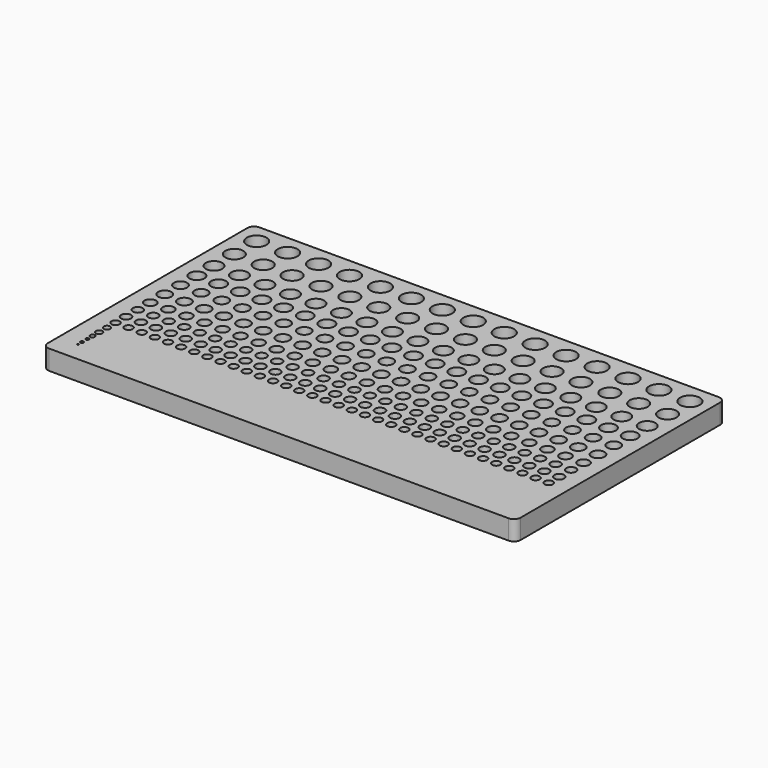
from build123d import *

# Parameters (mm, degrees)
F0_R     = 0.79375
F0_R_2   = 1.5875
F0_R_3   = 2.38125
F0_R_4   = 3.175
F0_R_5   = 3.96875
F0_R_6   = 4.7625
F0_R_7   = 5.55625
F0_R_8   = 6.35
F0_R_9   = 7.14375
F0_R_10  = 7.9375
F0_R_11  = 8.73125
F0_R_12  = 9.525
F1_DEPTH = 19.05


with BuildPart() as f1:
    # F0 (on Top) → F1 (new body)
    with BuildSketch(Plane.XY):
        with BuildLine():
            ThreePointArc((0, 6.35), (1.859872, 1.859872), (6.35, 0))
            Line((6.35, 0), (450.85, 0))
            ThreePointArc((450.85, 0), (455.340128, 1.859872), (457.2, 6.35))
            Line((457.2, 6.35), (457.2, 247.65))
            ThreePointArc((457.2, 247.65), (455.340128, 252.140128), (450.85, 254))
            Line((450.85, 254), (6.35, 254))
            ThreePointArc((6.35, 254), (1.859872, 252.140128), (0, 247.65))
            Line((0, 247.65), (0, 6.35))
        make_face()
        with Locations((19.05, 19.05)):
            Circle(F0_R, mode=Mode.SUBTRACT)
        with Locations((19.05, 23.8125)):
            Circle(F0_R_2, mode=Mode.SUBTRACT)
        with Locations((19.05, 30.1625)):
            Circle(F0_R_2, mode=Mode.SUBTRACT)
        with Locations((19.05, 36.5125)):
            Circle(F0_R_3, mode=Mode.SUBTRACT)
        with Locations((19.05, 44.45)):
            Circle(F0_R_4, mode=Mode.SUBTRACT)
        with Locations((19.05, 53.975)):
            Circle(F0_R_4, mode=Mode.SUBTRACT)
        with Locations((19.05, 64.29375)):
            Circle(F0_R_5, mode=Mode.SUBTRACT)
        with Locations((19.05, 76.99375)):
            Circle(F0_R_6, mode=Mode.SUBTRACT)
        with Locations((31.75, 64.29375)):
            Circle(F0_R_5, mode=Mode.SUBTRACT)
        with Locations((44.45, 64.29375)):
            Circle(F0_R_5, mode=Mode.SUBTRACT)
        with Locations((33.501724, 76.99375)):
            Circle(F0_R_6, mode=Mode.SUBTRACT)
        with Locations((47.953448, 76.99375)):
            Circle(F0_R_6, mode=Mode.SUBTRACT)
        with Locations((19.05, 91.28125)):
            Circle(F0_R_6, mode=Mode.SUBTRACT)
        with Locations((34.017857, 91.28125)):
            Circle(F0_R_6, mode=Mode.SUBTRACT)
        with Locations((48.985714, 91.28125)):
            Circle(F0_R_6, mode=Mode.SUBTRACT)
        with Locations((57.15, 64.29375)):
            Circle(F0_R_5, mode=Mode.SUBTRACT)
        with Locations((69.85, 64.29375)):
            Circle(F0_R_5, mode=Mode.SUBTRACT)
        with Locations((82.55, 64.29375)):
            Circle(F0_R_5, mode=Mode.SUBTRACT)
        with Locations((62.405172, 76.99375)):
            Circle(F0_R_6, mode=Mode.SUBTRACT)
        with Locations((76.856897, 76.99375)):
            Circle(F0_R_6, mode=Mode.SUBTRACT)
        with Locations((95.25, 64.29375)):
            Circle(F0_R_5, mode=Mode.SUBTRACT)
        with Locations((107.95, 64.29375)):
            Circle(F0_R_5, mode=Mode.SUBTRACT)
        with Locations((91.308621, 76.99375)):
            Circle(F0_R_6, mode=Mode.SUBTRACT)
        with Locations((105.760345, 76.99375)):
            Circle(F0_R_6, mode=Mode.SUBTRACT)
        with Locations((63.953571, 91.28125)):
            Circle(F0_R_6, mode=Mode.SUBTRACT)
        with Locations((78.921429, 91.28125)):
            Circle(F0_R_6, mode=Mode.SUBTRACT)
        with Locations((93.889286, 91.28125)):
            Circle(F0_R_6, mode=Mode.SUBTRACT)
        with Locations((108.857143, 91.28125)):
            Circle(F0_R_6, mode=Mode.SUBTRACT)
        with Locations((19.05, 106.3625)):
            Circle(F0_R_7, mode=Mode.SUBTRACT)
        with Locations((36.5125, 106.3625)):
            Circle(F0_R_7, mode=Mode.SUBTRACT)
        with Locations((53.975, 106.3625)):
            Circle(F0_R_7, mode=Mode.SUBTRACT)
        with Locations((19.05, 123.825)):
            Circle(F0_R_8, mode=Mode.SUBTRACT)
        with Locations((38.1, 123.825)):
            Circle(F0_R_8, mode=Mode.SUBTRACT)
        with Locations((71.4375, 106.3625)):
            Circle(F0_R_7, mode=Mode.SUBTRACT)
        with Locations((88.9, 106.3625)):
            Circle(F0_R_7, mode=Mode.SUBTRACT)
        with Locations((106.3625, 106.3625)):
            Circle(F0_R_7, mode=Mode.SUBTRACT)
        with Locations((57.15, 123.825)):
            Circle(F0_R_8, mode=Mode.SUBTRACT)
        with Locations((76.2, 123.825)):
            Circle(F0_R_8, mode=Mode.SUBTRACT)
        with Locations((95.25, 123.825)):
            Circle(F0_R_8, mode=Mode.SUBTRACT)
        with Locations((120.65, 64.29375)):
            Circle(F0_R_5, mode=Mode.SUBTRACT)
        with Locations((133.35, 64.29375)):
            Circle(F0_R_5, mode=Mode.SUBTRACT)
        with Locations((120.212069, 76.99375)):
            Circle(F0_R_6, mode=Mode.SUBTRACT)
        with Locations((134.663793, 76.99375)):
            Circle(F0_R_6, mode=Mode.SUBTRACT)
        with Locations((146.05, 64.29375)):
            Circle(F0_R_5, mode=Mode.SUBTRACT)
        with Locations((158.75, 64.29375)):
            Circle(F0_R_5, mode=Mode.SUBTRACT)
        with Locations((149.115517, 76.99375)):
            Circle(F0_R_6, mode=Mode.SUBTRACT)
        with Locations((163.567241, 76.99375)):
            Circle(F0_R_6, mode=Mode.SUBTRACT)
        with Locations((123.825, 91.28125)):
            Circle(F0_R_6, mode=Mode.SUBTRACT)
        with Locations((138.792857, 91.28125)):
            Circle(F0_R_6, mode=Mode.SUBTRACT)
        with Locations((153.760714, 91.28125)):
            Circle(F0_R_6, mode=Mode.SUBTRACT)
        with Locations((168.728571, 91.28125)):
            Circle(F0_R_6, mode=Mode.SUBTRACT)
        with Locations((171.45, 64.29375)):
            Circle(F0_R_5, mode=Mode.SUBTRACT)
        with Locations((184.15, 64.29375)):
            Circle(F0_R_5, mode=Mode.SUBTRACT)
        with Locations((196.85, 64.29375)):
            Circle(F0_R_5, mode=Mode.SUBTRACT)
        with Locations((178.018966, 76.99375)):
            Circle(F0_R_6, mode=Mode.SUBTRACT)
        with Locations((192.47069, 76.99375)):
            Circle(F0_R_6, mode=Mode.SUBTRACT)
        with Locations((209.55, 64.29375)):
            Circle(F0_R_5, mode=Mode.SUBTRACT)
        with Locations((222.25, 64.29375)):
            Circle(F0_R_5, mode=Mode.SUBTRACT)
        with Locations((206.922414, 76.99375)):
            Circle(F0_R_6, mode=Mode.SUBTRACT)
        with Locations((221.374138, 76.99375)):
            Circle(F0_R_6, mode=Mode.SUBTRACT)
        with Locations((183.696429, 91.28125)):
            Circle(F0_R_6, mode=Mode.SUBTRACT)
        with Locations((198.664286, 91.28125)):
            Circle(F0_R_6, mode=Mode.SUBTRACT)
        with Locations((213.632143, 91.28125)):
            Circle(F0_R_6, mode=Mode.SUBTRACT)
        with Locations((228.6, 91.28125)):
            Circle(F0_R_6, mode=Mode.SUBTRACT)
        with Locations((123.825, 106.3625)):
            Circle(F0_R_7, mode=Mode.SUBTRACT)
        with Locations((141.2875, 106.3625)):
            Circle(F0_R_7, mode=Mode.SUBTRACT)
        with Locations((158.75, 106.3625)):
            Circle(F0_R_7, mode=Mode.SUBTRACT)
        with Locations((114.3, 123.825)):
            Circle(F0_R_8, mode=Mode.SUBTRACT)
        with Locations((133.35, 123.825)):
            Circle(F0_R_8, mode=Mode.SUBTRACT)
        with Locations((152.4, 123.825)):
            Circle(F0_R_8, mode=Mode.SUBTRACT)
        with Locations((176.2125, 106.3625)):
            Circle(F0_R_7, mode=Mode.SUBTRACT)
        with Locations((193.675, 106.3625)):
            Circle(F0_R_7, mode=Mode.SUBTRACT)
        with Locations((211.1375, 106.3625)):
            Circle(F0_R_7, mode=Mode.SUBTRACT)
        with Locations((171.45, 123.825)):
            Circle(F0_R_8, mode=Mode.SUBTRACT)
        with Locations((190.5, 123.825)):
            Circle(F0_R_8, mode=Mode.SUBTRACT)
        with Locations((209.55, 123.825)):
            Circle(F0_R_8, mode=Mode.SUBTRACT)
        with Locations((234.95, 64.29375)):
            Circle(F0_R_5, mode=Mode.SUBTRACT)
        with Locations((247.65, 64.29375)):
            Circle(F0_R_5, mode=Mode.SUBTRACT)
        with Locations((235.825862, 76.99375)):
            Circle(F0_R_6, mode=Mode.SUBTRACT)
        with Locations((250.277586, 76.99375)):
            Circle(F0_R_6, mode=Mode.SUBTRACT)
        with Locations((260.35, 64.29375)):
            Circle(F0_R_5, mode=Mode.SUBTRACT)
        with Locations((273.05, 64.29375)):
            Circle(F0_R_5, mode=Mode.SUBTRACT)
        with Locations((264.72931, 76.99375)):
            Circle(F0_R_6, mode=Mode.SUBTRACT)
        with Locations((279.181034, 76.99375)):
            Circle(F0_R_6, mode=Mode.SUBTRACT)
        with Locations((243.567857, 91.28125)):
            Circle(F0_R_6, mode=Mode.SUBTRACT)
        with Locations((258.535714, 91.28125)):
            Circle(F0_R_6, mode=Mode.SUBTRACT)
        with Locations((273.503571, 91.28125)):
            Circle(F0_R_6, mode=Mode.SUBTRACT)
        with Locations((285.75, 64.29375)):
            Circle(F0_R_5, mode=Mode.SUBTRACT)
        with Locations((298.45, 64.29375)):
            Circle(F0_R_5, mode=Mode.SUBTRACT)
        with Locations((311.15, 64.29375)):
            Circle(F0_R_5, mode=Mode.SUBTRACT)
        with Locations((293.632759, 76.99375)):
            Circle(F0_R_6, mode=Mode.SUBTRACT)
        with Locations((308.084483, 76.99375)):
            Circle(F0_R_6, mode=Mode.SUBTRACT)
        with Locations((323.85, 64.29375)):
            Circle(F0_R_5, mode=Mode.SUBTRACT)
        with Locations((336.55, 64.29375)):
            Circle(F0_R_5, mode=Mode.SUBTRACT)
        with Locations((322.536207, 76.99375)):
            Circle(F0_R_6, mode=Mode.SUBTRACT)
        with Locations((336.987931, 76.99375)):
            Circle(F0_R_6, mode=Mode.SUBTRACT)
        with Locations((288.471429, 91.28125)):
            Circle(F0_R_6, mode=Mode.SUBTRACT)
        with Locations((303.439286, 91.28125)):
            Circle(F0_R_6, mode=Mode.SUBTRACT)
        with Locations((318.407143, 91.28125)):
            Circle(F0_R_6, mode=Mode.SUBTRACT)
        with Locations((333.375, 91.28125)):
            Circle(F0_R_6, mode=Mode.SUBTRACT)
        with Locations((228.6, 106.3625)):
            Circle(F0_R_7, mode=Mode.SUBTRACT)
        with Locations((246.0625, 106.3625)):
            Circle(F0_R_7, mode=Mode.SUBTRACT)
        with Locations((263.525, 106.3625)):
            Circle(F0_R_7, mode=Mode.SUBTRACT)
        with Locations((280.9875, 106.3625)):
            Circle(F0_R_7, mode=Mode.SUBTRACT)
        with Locations((228.6, 123.825)):
            Circle(F0_R_8, mode=Mode.SUBTRACT)
        with Locations((247.65, 123.825)):
            Circle(F0_R_8, mode=Mode.SUBTRACT)
        with Locations((266.7, 123.825)):
            Circle(F0_R_8, mode=Mode.SUBTRACT)
        with Locations((298.45, 106.3625)):
            Circle(F0_R_7, mode=Mode.SUBTRACT)
        with Locations((315.9125, 106.3625)):
            Circle(F0_R_7, mode=Mode.SUBTRACT)
        with Locations((333.375, 106.3625)):
            Circle(F0_R_7, mode=Mode.SUBTRACT)
        with Locations((285.75, 123.825)):
            Circle(F0_R_8, mode=Mode.SUBTRACT)
        with Locations((304.8, 123.825)):
            Circle(F0_R_8, mode=Mode.SUBTRACT)
        with Locations((323.85, 123.825)):
            Circle(F0_R_8, mode=Mode.SUBTRACT)
        with Locations((349.25, 64.29375)):
            Circle(F0_R_5, mode=Mode.SUBTRACT)
        with Locations((361.95, 64.29375)):
            Circle(F0_R_5, mode=Mode.SUBTRACT)
        with Locations((351.439655, 76.99375)):
            Circle(F0_R_6, mode=Mode.SUBTRACT)
        with Locations((365.891379, 76.99375)):
            Circle(F0_R_6, mode=Mode.SUBTRACT)
        with Locations((374.65, 64.29375)):
            Circle(F0_R_5, mode=Mode.SUBTRACT)
        with Locations((387.35, 64.29375)):
            Circle(F0_R_5, mode=Mode.SUBTRACT)
        with Locations((380.343103, 76.99375)):
            Circle(F0_R_6, mode=Mode.SUBTRACT)
        with Locations((394.794828, 76.99375)):
            Circle(F0_R_6, mode=Mode.SUBTRACT)
        with Locations((348.342857, 91.28125)):
            Circle(F0_R_6, mode=Mode.SUBTRACT)
        with Locations((363.310714, 91.28125)):
            Circle(F0_R_6, mode=Mode.SUBTRACT)
        with Locations((378.278571, 91.28125)):
            Circle(F0_R_6, mode=Mode.SUBTRACT)
        with Locations((393.246429, 91.28125)):
            Circle(F0_R_6, mode=Mode.SUBTRACT)
        with Locations((400.05, 64.29375)):
            Circle(F0_R_5, mode=Mode.SUBTRACT)
        with Locations((412.75, 64.29375)):
            Circle(F0_R_5, mode=Mode.SUBTRACT)
        with Locations((425.45, 64.29375)):
            Circle(F0_R_5, mode=Mode.SUBTRACT)
        with Locations((409.246552, 76.99375)):
            Circle(F0_R_6, mode=Mode.SUBTRACT)
        with Locations((423.698276, 76.99375)):
            Circle(F0_R_6, mode=Mode.SUBTRACT)
        with Locations((438.15, 64.29375)):
            Circle(F0_R_5, mode=Mode.SUBTRACT)
        with Locations((438.15, 76.99375)):
            Circle(F0_R_6, mode=Mode.SUBTRACT)
        with Locations((408.214286, 91.28125)):
            Circle(F0_R_6, mode=Mode.SUBTRACT)
        with Locations((423.182143, 91.28125)):
            Circle(F0_R_6, mode=Mode.SUBTRACT)
        with Locations((438.15, 91.28125)):
            Circle(F0_R_6, mode=Mode.SUBTRACT)
        with Locations((350.8375, 106.3625)):
            Circle(F0_R_7, mode=Mode.SUBTRACT)
        with Locations((368.3, 106.3625)):
            Circle(F0_R_7, mode=Mode.SUBTRACT)
        with Locations((385.7625, 106.3625)):
            Circle(F0_R_7, mode=Mode.SUBTRACT)
        with Locations((342.9, 123.825)):
            Circle(F0_R_8, mode=Mode.SUBTRACT)
        with Locations((361.95, 123.825)):
            Circle(F0_R_8, mode=Mode.SUBTRACT)
        with Locations((381, 123.825)):
            Circle(F0_R_8, mode=Mode.SUBTRACT)
        with Locations((403.225, 106.3625)):
            Circle(F0_R_7, mode=Mode.SUBTRACT)
        with Locations((420.6875, 106.3625)):
            Circle(F0_R_7, mode=Mode.SUBTRACT)
        with Locations((438.15, 106.3625)):
            Circle(F0_R_7, mode=Mode.SUBTRACT)
        with Locations((400.05, 123.825)):
            Circle(F0_R_8, mode=Mode.SUBTRACT)
        with Locations((419.1, 123.825)):
            Circle(F0_R_8, mode=Mode.SUBTRACT)
        with Locations((438.15, 123.825)):
            Circle(F0_R_8, mode=Mode.SUBTRACT)
        with Locations((19.05, 142.875)):
            Circle(F0_R_8, mode=Mode.SUBTRACT)
        with Locations((39.007143, 142.875)):
            Circle(F0_R_8, mode=Mode.SUBTRACT)
        with Locations((58.964286, 142.875)):
            Circle(F0_R_8, mode=Mode.SUBTRACT)
        with Locations((78.921429, 142.875)):
            Circle(F0_R_8, mode=Mode.SUBTRACT)
        with Locations((98.878571, 142.875)):
            Circle(F0_R_8, mode=Mode.SUBTRACT)
        with Locations((19.05, 162.71875)):
            Circle(F0_R_9, mode=Mode.SUBTRACT)
        with Locations((40.005, 162.71875)):
            Circle(F0_R_9, mode=Mode.SUBTRACT)
        with Locations((19.05, 183.35625)):
            Circle(F0_R_10, mode=Mode.SUBTRACT)
        with Locations((43.702941, 183.35625)):
            Circle(F0_R_10, mode=Mode.SUBTRACT)
        with Locations((60.96, 162.71875)):
            Circle(F0_R_9, mode=Mode.SUBTRACT)
        with Locations((81.915, 162.71875)):
            Circle(F0_R_9, mode=Mode.SUBTRACT)
        with Locations((102.87, 162.71875)):
            Circle(F0_R_9, mode=Mode.SUBTRACT)
        with Locations((68.355882, 183.35625)):
            Circle(F0_R_10, mode=Mode.SUBTRACT)
        with Locations((93.008824, 183.35625)):
            Circle(F0_R_10, mode=Mode.SUBTRACT)
        with Locations((118.835714, 142.875)):
            Circle(F0_R_8, mode=Mode.SUBTRACT)
        with Locations((138.792857, 142.875)):
            Circle(F0_R_8, mode=Mode.SUBTRACT)
        with Locations((158.75, 142.875)):
            Circle(F0_R_8, mode=Mode.SUBTRACT)
        with Locations((178.707143, 142.875)):
            Circle(F0_R_8, mode=Mode.SUBTRACT)
        with Locations((198.664286, 142.875)):
            Circle(F0_R_8, mode=Mode.SUBTRACT)
        with Locations((218.621429, 142.875)):
            Circle(F0_R_8, mode=Mode.SUBTRACT)
        with Locations((123.825, 162.71875)):
            Circle(F0_R_9, mode=Mode.SUBTRACT)
        with Locations((144.78, 162.71875)):
            Circle(F0_R_9, mode=Mode.SUBTRACT)
        with Locations((165.735, 162.71875)):
            Circle(F0_R_9, mode=Mode.SUBTRACT)
        with Locations((117.661765, 183.35625)):
            Circle(F0_R_10, mode=Mode.SUBTRACT)
        with Locations((142.314706, 183.35625)):
            Circle(F0_R_10, mode=Mode.SUBTRACT)
        with Locations((166.967647, 183.35625)):
            Circle(F0_R_10, mode=Mode.SUBTRACT)
        with Locations((186.69, 162.71875)):
            Circle(F0_R_9, mode=Mode.SUBTRACT)
        with Locations((207.645, 162.71875)):
            Circle(F0_R_9, mode=Mode.SUBTRACT)
        with Locations((191.620588, 183.35625)):
            Circle(F0_R_10, mode=Mode.SUBTRACT)
        with Locations((216.273529, 183.35625)):
            Circle(F0_R_10, mode=Mode.SUBTRACT)
        with Locations((19.05, 207.9625)):
            Circle(F0_R_11, mode=Mode.SUBTRACT)
        with Locations((46.99, 207.9625)):
            Circle(F0_R_11, mode=Mode.SUBTRACT)
        with Locations((74.93, 207.9625)):
            Circle(F0_R_11, mode=Mode.SUBTRACT)
        with Locations((102.87, 207.9625)):
            Circle(F0_R_11, mode=Mode.SUBTRACT)
        with Locations((19.05, 234.95)):
            Circle(F0_R_12, mode=Mode.SUBTRACT)
        with Locations((48.985714, 234.95)):
            Circle(F0_R_12, mode=Mode.SUBTRACT)
        with Locations((78.921429, 234.95)):
            Circle(F0_R_12, mode=Mode.SUBTRACT)
        with Locations((108.857143, 234.95)):
            Circle(F0_R_12, mode=Mode.SUBTRACT)
        with Locations((130.81, 207.9625)):
            Circle(F0_R_11, mode=Mode.SUBTRACT)
        with Locations((158.75, 207.9625)):
            Circle(F0_R_11, mode=Mode.SUBTRACT)
        with Locations((186.69, 207.9625)):
            Circle(F0_R_11, mode=Mode.SUBTRACT)
        with Locations((214.63, 207.9625)):
            Circle(F0_R_11, mode=Mode.SUBTRACT)
        with Locations((138.792857, 234.95)):
            Circle(F0_R_12, mode=Mode.SUBTRACT)
        with Locations((168.728571, 234.95)):
            Circle(F0_R_12, mode=Mode.SUBTRACT)
        with Locations((198.664286, 234.95)):
            Circle(F0_R_12, mode=Mode.SUBTRACT)
        with Locations((228.6, 234.95)):
            Circle(F0_R_12, mode=Mode.SUBTRACT)
        with Locations((238.578571, 142.875)):
            Circle(F0_R_8, mode=Mode.SUBTRACT)
        with Locations((258.535714, 142.875)):
            Circle(F0_R_8, mode=Mode.SUBTRACT)
        with Locations((278.492857, 142.875)):
            Circle(F0_R_8, mode=Mode.SUBTRACT)
        with Locations((298.45, 142.875)):
            Circle(F0_R_8, mode=Mode.SUBTRACT)
        with Locations((318.407143, 142.875)):
            Circle(F0_R_8, mode=Mode.SUBTRACT)
        with Locations((338.364286, 142.875)):
            Circle(F0_R_8, mode=Mode.SUBTRACT)
        with Locations((228.6, 162.71875)):
            Circle(F0_R_9, mode=Mode.SUBTRACT)
        with Locations((249.555, 162.71875)):
            Circle(F0_R_9, mode=Mode.SUBTRACT)
        with Locations((270.51, 162.71875)):
            Circle(F0_R_9, mode=Mode.SUBTRACT)
        with Locations((240.926471, 183.35625)):
            Circle(F0_R_10, mode=Mode.SUBTRACT)
        with Locations((265.579412, 183.35625)):
            Circle(F0_R_10, mode=Mode.SUBTRACT)
        with Locations((291.465, 162.71875)):
            Circle(F0_R_9, mode=Mode.SUBTRACT)
        with Locations((312.42, 162.71875)):
            Circle(F0_R_9, mode=Mode.SUBTRACT)
        with Locations((333.375, 162.71875)):
            Circle(F0_R_9, mode=Mode.SUBTRACT)
        with Locations((290.232353, 183.35625)):
            Circle(F0_R_10, mode=Mode.SUBTRACT)
        with Locations((314.885294, 183.35625)):
            Circle(F0_R_10, mode=Mode.SUBTRACT)
        with Locations((339.538235, 183.35625)):
            Circle(F0_R_10, mode=Mode.SUBTRACT)
        with Locations((358.321429, 142.875)):
            Circle(F0_R_8, mode=Mode.SUBTRACT)
        with Locations((378.278571, 142.875)):
            Circle(F0_R_8, mode=Mode.SUBTRACT)
        with Locations((398.235714, 142.875)):
            Circle(F0_R_8, mode=Mode.SUBTRACT)
        with Locations((418.192857, 142.875)):
            Circle(F0_R_8, mode=Mode.SUBTRACT)
        with Locations((438.15, 142.875)):
            Circle(F0_R_8, mode=Mode.SUBTRACT)
        with Locations((354.33, 162.71875)):
            Circle(F0_R_9, mode=Mode.SUBTRACT)
        with Locations((375.285, 162.71875)):
            Circle(F0_R_9, mode=Mode.SUBTRACT)
        with Locations((396.24, 162.71875)):
            Circle(F0_R_9, mode=Mode.SUBTRACT)
        with Locations((364.191176, 183.35625)):
            Circle(F0_R_10, mode=Mode.SUBTRACT)
        with Locations((388.844118, 183.35625)):
            Circle(F0_R_10, mode=Mode.SUBTRACT)
        with Locations((417.195, 162.71875)):
            Circle(F0_R_9, mode=Mode.SUBTRACT)
        with Locations((438.15, 162.71875)):
            Circle(F0_R_9, mode=Mode.SUBTRACT)
        with Locations((413.497059, 183.35625)):
            Circle(F0_R_10, mode=Mode.SUBTRACT)
        with Locations((438.15, 183.35625)):
            Circle(F0_R_10, mode=Mode.SUBTRACT)
        with Locations((242.57, 207.9625)):
            Circle(F0_R_11, mode=Mode.SUBTRACT)
        with Locations((270.51, 207.9625)):
            Circle(F0_R_11, mode=Mode.SUBTRACT)
        with Locations((298.45, 207.9625)):
            Circle(F0_R_11, mode=Mode.SUBTRACT)
        with Locations((326.39, 207.9625)):
            Circle(F0_R_11, mode=Mode.SUBTRACT)
        with Locations((258.535714, 234.95)):
            Circle(F0_R_12, mode=Mode.SUBTRACT)
        with Locations((288.471429, 234.95)):
            Circle(F0_R_12, mode=Mode.SUBTRACT)
        with Locations((318.407143, 234.95)):
            Circle(F0_R_12, mode=Mode.SUBTRACT)
        with Locations((354.33, 207.9625)):
            Circle(F0_R_11, mode=Mode.SUBTRACT)
        with Locations((382.27, 207.9625)):
            Circle(F0_R_11, mode=Mode.SUBTRACT)
        with Locations((410.21, 207.9625)):
            Circle(F0_R_11, mode=Mode.SUBTRACT)
        with Locations((438.15, 207.9625)):
            Circle(F0_R_11, mode=Mode.SUBTRACT)
        with Locations((348.342857, 234.95)):
            Circle(F0_R_12, mode=Mode.SUBTRACT)
        with Locations((378.278571, 234.95)):
            Circle(F0_R_12, mode=Mode.SUBTRACT)
        with Locations((408.214286, 234.95)):
            Circle(F0_R_12, mode=Mode.SUBTRACT)
        with Locations((438.15, 234.95)):
            Circle(F0_R_12, mode=Mode.SUBTRACT)
    extrude(amount=F1_DEPTH)


solid = f1.part
